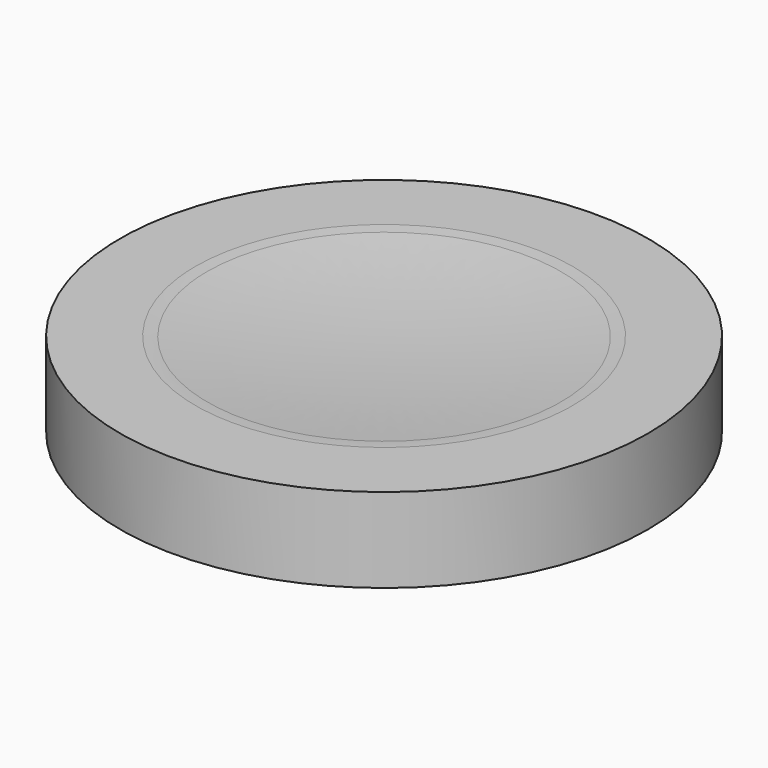
from build123d import *

# Parameters (mm, degrees)
F0_R     = 12.5
F0_R_2   = 3
F1_DEPTH = 4
F2_DEPTH = 2
F5_R     = 5


with BuildPart() as f1:
    # F0 (on Top) → F1 (new body)
    with BuildSketch(Plane.XY):
        Circle(F0_R)
        Circle(F0_R_2, mode=Mode.SUBTRACT)
        Circle(F0_R_2)
    extrude(amount=F1_DEPTH)

    # F0 (on Top) → F2 (cut)
    with BuildSketch(Plane.XY):
        Circle(F0_R_2)
    extrude(amount=F2_DEPTH, mode=Mode.SUBTRACT)

    # F3 (on Front) → F4 (revolve, cut)
    with BuildSketch(Plane.XZ):
        with BuildLine():
            ThreePointArc((0, 153.5), (-75, 78.5), (0, 3.5))
            Line((0, 3.5), (0, 4))
            Line((0, 4), (0, 153.5))
        make_face()
    revolve(axis=Axis((0, 0, 82.6326791644), (0, 0, 1)), mode=Mode.SUBTRACT)

    # F5
    f5_edges = [f1.edges().sort_by_distance(p)[0] for p in [
        (8.645808, 0, 4),
    ]]
    fillet(f5_edges, radius=F5_R)


solid = f1.part
